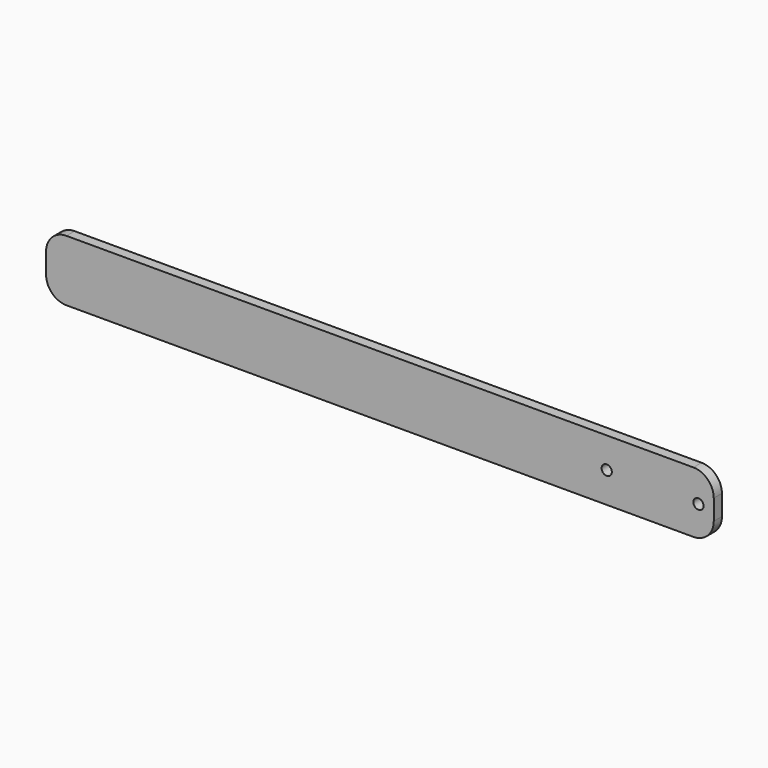
from build123d import *

# Parameters (mm, degrees)
F0_W     = 831.85
F0_H     = 76.2
F1_DEPTH = 6.35
F2_R     = 6.35
F3_DEPTH = 25.4
F4_R     = 25.4


with BuildPart() as f1:
    # F0 (on Front) → F1 (new body, symmetric)
    with BuildSketch(Plane.XZ):
        Rectangle(F0_W, F0_H)
    extrude(amount=F1_DEPTH, both=True)

    # F2 (on face) → F3 (cut)
    with BuildSketch(Plane.XZ.offset(6.35)):
        with Locations((282.575, 0)):
            Circle(F2_R)
        with Locations((396.875, 0)):
            Circle(F2_R)
    extrude(amount=-F3_DEPTH, mode=Mode.SUBTRACT)

    # F4
    f4_edges = [f1.edges().sort_by_distance(p)[0] for p in [
        (-415.925, 0, 38.1),
        (-415.925, 0, -38.1),
        (415.925, 0, -38.1),
        (415.925, 0, 38.1),
    ]]
    fillet(f4_edges, radius=F4_R)


solid = f1.part
